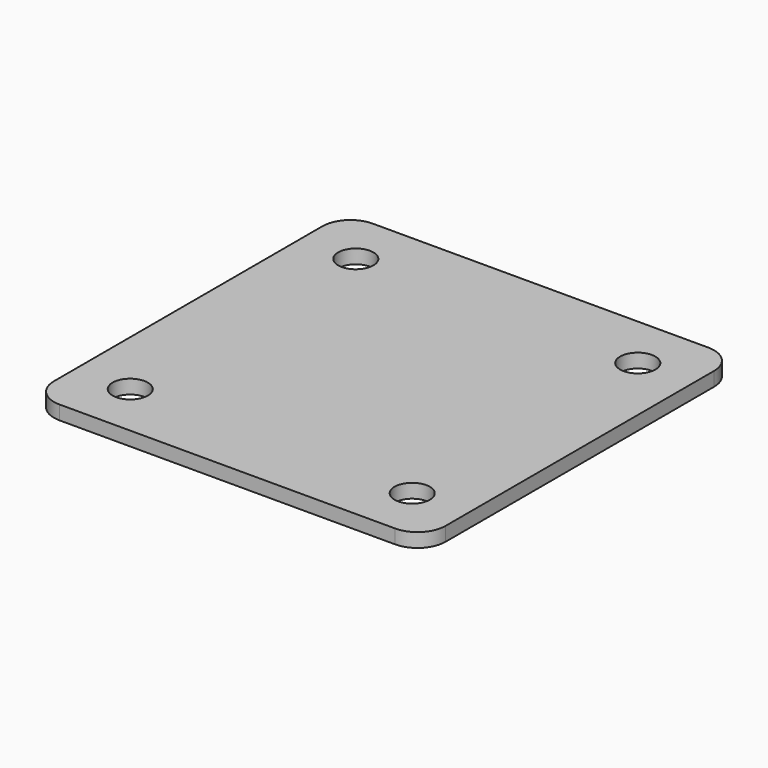
from build123d import *

# Parameters (mm, degrees)
F0_W     = 88.9
F0_H     = 88.9
F0_R     = 4
F1_DEPTH = 3.175
F2_R     = 6.35


with BuildPart() as f1:
    # F0 (on Top) → F1 (new body)
    with BuildSketch(Plane.XY):
        with Locations((-44.45, -44.45)):
            Rectangle(F0_W, F0_H)
        with Locations((-76.45, -76.45)):
            Circle(F0_R, mode=Mode.SUBTRACT)
        with Locations((-12.45, -76.45)):
            Circle(F0_R, mode=Mode.SUBTRACT)
        with Locations((-76.45, -12.45)):
            Circle(F0_R, mode=Mode.SUBTRACT)
        with Locations((-12.45, -12.45)):
            Circle(F0_R, mode=Mode.SUBTRACT)
    extrude(amount=F1_DEPTH)

    # F2
    f2_edges = [f1.edges().sort_by_distance(p)[0] for p in [
        (-88.9, 0, 1.5875),
        (-88.9, -88.9, 1.5875),
        (0, -88.9, 1.5875),
        (0, 0, 1.5875),
    ]]
    fillet(f2_edges, radius=F2_R)


solid = f1.part
